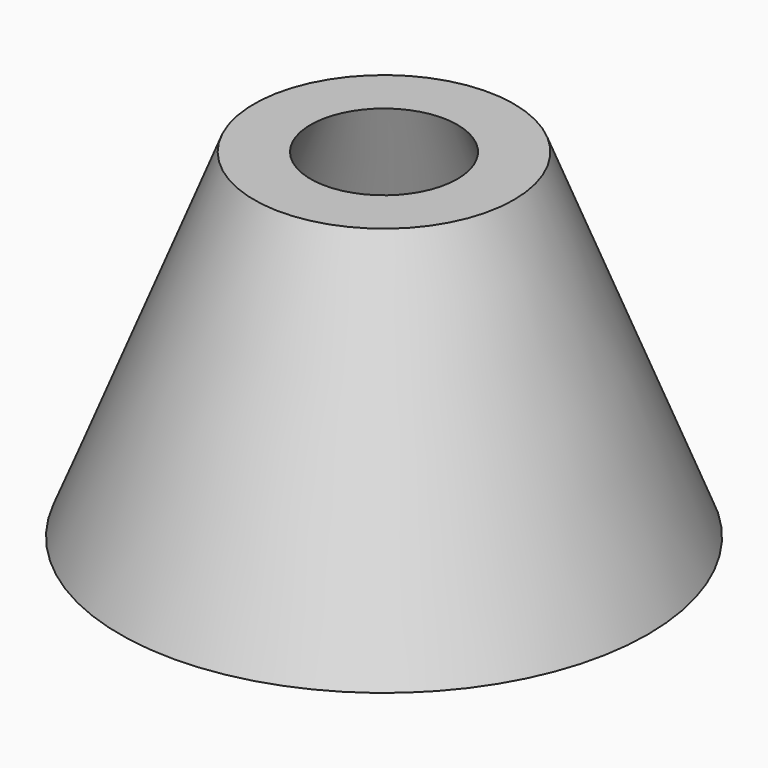
from build123d import *

# Parameters (mm, degrees)
F1_W = 16
F1_H = 0.75


with BuildPart() as f2:
    # F1 (on Front) → F2 (revolve)
    with BuildSketch(Plane.XZ):
        with Locations((0, 7.5700522866)):
            Rectangle(F1_W, F1_H)
    revolve(axis=Axis((0, 0, 7.9450522866), (-1, 0, 0)))

    # F0 (on Front) → F3 (revolve)
    with BuildSketch(Plane.XZ):
        Polygon((5.75, 15), (3.25, 15), (9.1825388372, 0), (11.6825388372, 0), align=None)
    revolve(axis=Axis((0, 0, 7.5), (0, 0, 1)))


solid = f2.part
